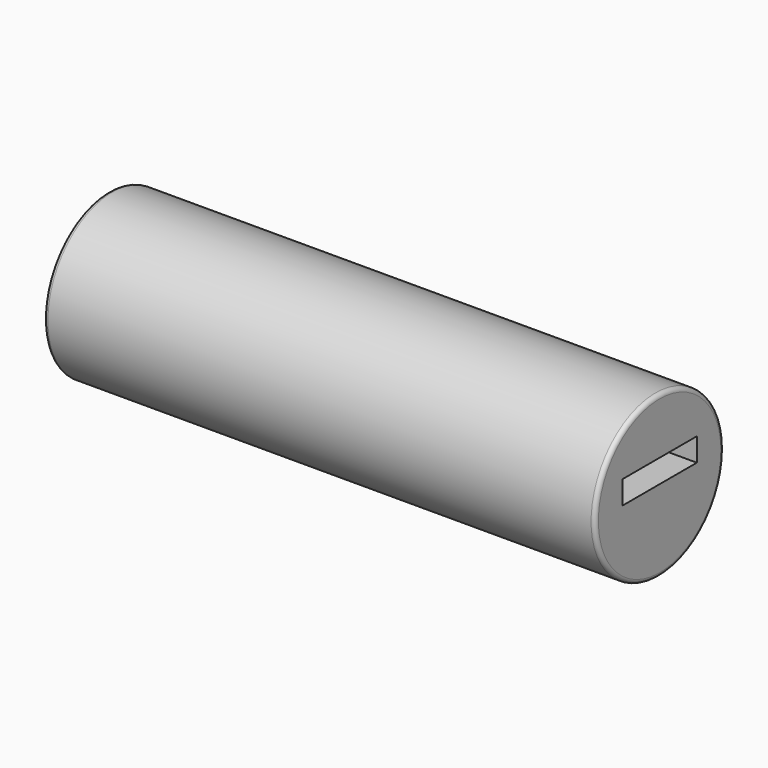
from build123d import *

# Parameters (mm, degrees)
F0_R     = 10.9855
F1_DEPTH = 37.592
F2_W     = 12.7
F2_H     = 3.175
F3_DEPTH = 10.922
F4_R     = 0.551889


with BuildPart() as f1:
    # F0 (on Right) → F1 (new body, symmetric)
    with BuildSketch(Plane.YZ):
        Circle(F0_R)
    extrude(amount=F1_DEPTH, both=True)

    # F2 (on face) → F3 (cut)
    with BuildSketch(Plane.YZ.offset(37.592)):
        with Locations((0, 1.778)):
            Rectangle(F2_W, F2_H)
    extrude(amount=-F3_DEPTH, mode=Mode.SUBTRACT)

    # F4
    f4_edges = [f1.edges().sort_by_distance(p)[0] for p in [
        (37.592, -10.9855, 0),
        (-37.592, -10.9855, 0),
    ]]
    fillet(f4_edges, radius=F4_R)


solid = f1.part
